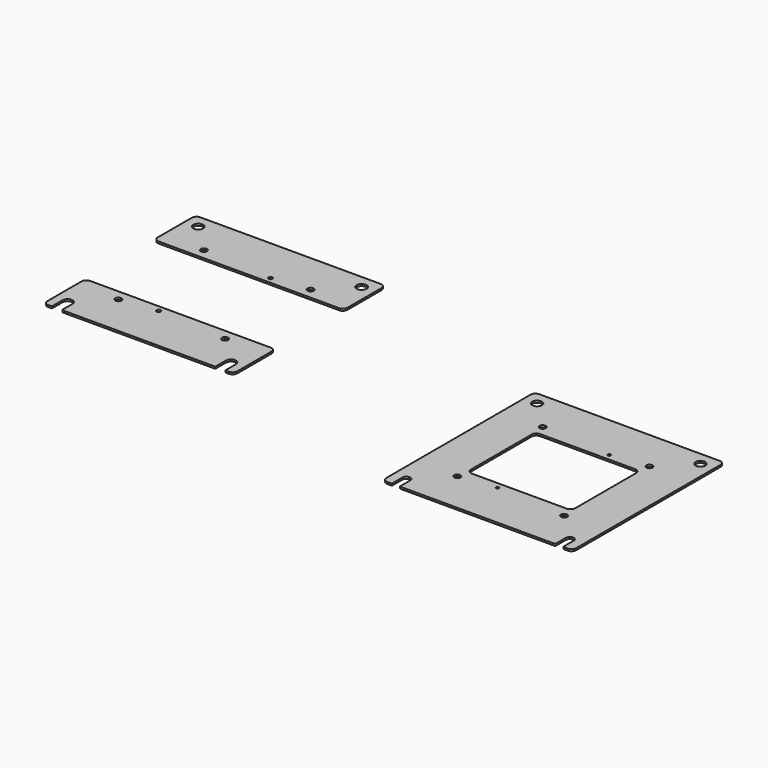
from build123d import *

# Parameters (mm, degrees)
F0_R     = 3.3
F0_R_2   = 1.55
F0_R_3   = 5.1
F1_DEPTH = 2
F0_R_4   = 2.1
F0_R_5   = 5.25
F2_R     = 2.8
F3_DEPTH = 1.65
F3_TAPER = -46


with BuildPart() as f1:
    # F0 (on Top) → F1 (new body)
    with BuildSketch(Plane.XY):
        with BuildLine():
            ThreePointArc((-100, -95), (-98.5355339059, -98.5355339059), (-95, -100))
            Line((-95, -100), (-91.1, -100))
            ThreePointArc((-91.1, -100), (-90.3928932188, -99.7071067812), (-90.1, -99))
            Line((-90.1, -99), (-90.1, -86))
            ThreePointArc((-90.1, -86), (-86, -81.9), (-81.9, -86))
            Line((-81.9, -86), (-81.9, -99))
            ThreePointArc((-81.9, -99), (-81.6071067812, -99.7071067812), (-80.9, -100))
            Line((-80.9, -100), (80.9, -100))
            ThreePointArc((80.9, -100), (81.6071067812, -99.7071067812), (81.9, -99))
            Line((81.9, -99), (81.9, -86))
            ThreePointArc((81.9, -86), (86, -81.9), (90.1, -86))
            Line((90.1, -86), (90.1, -99))
            ThreePointArc((90.1, -99), (90.3928932188, -99.7071067812), (91.1, -100))
            Line((91.1, -100), (95, -100))
            ThreePointArc((95, -100), (98.5355339059, -98.5355339059), (100, -95))
            Line((100, -95), (100, 95))
            ThreePointArc((100, 95), (98.5355339059, 98.5355339059), (95, 100))
            Line((95, 100), (-95, 100))
            ThreePointArc((-95, 100), (-98.5355339059, 98.5355339059), (-100, 95))
            Line((-100, 95), (-100, -95))
        make_face()
        with Locations((-56.2, -56.2)):
            Circle(F0_R, mode=Mode.SUBTRACT)
        with Locations((-17.7, -51.5)):
            Circle(F0_R_2, mode=Mode.SUBTRACT)
        with Locations((56.2, -56.2)):
            Circle(F0_R, mode=Mode.SUBTRACT)
        with BuildLine():
            Line((50, -45), (-50, -45))
            ThreePointArc((-50, -45), (-53.5355339059, -43.5355339059), (-55, -40))
            Line((-55, -40), (-55, 40))
            ThreePointArc((-55, 40), (-53.5355339059, 43.5355339059), (-50, 45))
            Line((-50, 45), (50, 45))
            ThreePointArc((50, 45), (53.5355339059, 43.5355339059), (55, 40))
            Line((55, 40), (55, -40))
            ThreePointArc((55, -40), (53.5355339059, -43.5355339059), (50, -45))
        make_face(mode=Mode.SUBTRACT)
        with Locations((-56.2, 56.2)):
            Circle(F0_R, mode=Mode.SUBTRACT)
        with Locations((-86, 86)):
            Circle(F0_R_3, mode=Mode.SUBTRACT)
        with Locations((17.7, 51.5)):
            Circle(F0_R_2, mode=Mode.SUBTRACT)
        with Locations((56.2, 56.2)):
            Circle(F0_R, mode=Mode.SUBTRACT)
        with Locations((86, 86)):
            Circle(F0_R_3, mode=Mode.SUBTRACT)
    extrude(amount=F1_DEPTH)

    # F2 (on face) → F3 (cut)
    with BuildSketch(Plane(origin=(0, 0, 0), x_dir=(1, 0, 0), z_dir=(0, 0, -1))):
        with Locations((17.7, -51.5)):
            Circle(F2_R)
        with Locations((-17.7, 51.5)):
            Circle(F2_R)
    extrude(amount=-F3_DEPTH, taper=F3_TAPER, mode=Mode.SUBTRACT)


with BuildPart() as f1b:
    # F0 (on Top) → F1, piece 2 (new body)
    with BuildSketch(Plane.XY):
        with BuildLine():
            ThreePointArc((-514.2914436857, -23.1435575097), (-512.8269775916, -26.6790914156), (-509.2914436857, -28.1435575097))
            Line((-509.2914436857, -28.1435575097), (-506.5414436857, -28.1435575097))
            ThreePointArc((-506.5414436857, -28.1435575097), (-505.8343369045, -27.8506642909), (-505.5414436857, -27.1435575097))
            Line((-505.5414436857, -27.1435575097), (-505.5414436857, -14.1435575097))
            ThreePointArc((-505.5414436857, -14.1435575097), (-500.2914436857, -8.8935575097), (-495.0414436857, -14.1435575097))
            Line((-495.0414436857, -14.1435575097), (-495.0414436857, -27.1435575097))
            ThreePointArc((-495.0414436857, -27.1435575097), (-494.7485504669, -27.8506642909), (-494.0414436857, -28.1435575097))
            Line((-494.0414436857, -28.1435575097), (-334.5414436857, -28.1435575097))
            ThreePointArc((-334.5414436857, -28.1435575097), (-333.8343369045, -27.8506642909), (-333.5414436857, -27.1435575097))
            Line((-333.5414436857, -27.1435575097), (-333.5414436857, -14.1435575097))
            ThreePointArc((-333.5414436857, -14.1435575097), (-328.2914436857, -8.8935575097), (-323.0414436857, -14.1435575097))
            Line((-323.0414436857, -14.1435575097), (-323.0414436857, -27.1435575097))
            ThreePointArc((-323.0414436857, -27.1435575097), (-322.7485504669, -27.8506642909), (-322.0414436857, -28.1435575097))
            Line((-322.0414436857, -28.1435575097), (-319.2914436857, -28.1435575097))
            ThreePointArc((-319.2914436857, -28.1435575097), (-315.7559097797, -26.6790914156), (-314.2914436857, -23.1435575097))
            Line((-314.2914436857, -23.1435575097), (-314.2914436857, 21.8564424903))
            ThreePointArc((-314.2914436857, 21.8564424903), (-315.7559097797, 25.3919763962), (-319.2914436857, 26.8564424903))
            Line((-319.2914436857, 26.8564424903), (-364.2914436857, 26.8564424903))
            Line((-364.2914436857, 26.8564424903), (-464.2914436857, 26.8564424903))
            Line((-464.2914436857, 26.8564424903), (-509.2914436857, 26.8564424903))
            ThreePointArc((-509.2914436857, 26.8564424903), (-512.8269775916, 25.3919763962), (-514.2914436857, 21.8564424903))
            Line((-514.2914436857, 21.8564424903), (-514.2914436857, -23.1435575097))
        make_face()
        with Locations((-470.4914436857, 15.6564424903)):
            Circle(F0_R, mode=Mode.SUBTRACT)
        with Locations((-431.9914436857, 20.3564424903)):
            Circle(F0_R_4, mode=Mode.SUBTRACT)
        with Locations((-358.0914436857, 15.6564424903)):
            Circle(F0_R, mode=Mode.SUBTRACT)
    extrude(amount=F1_DEPTH)


with BuildPart() as f1c:
    # F0 (on Top) → F1, piece 3 (new body)
    with BuildSketch(Plane.XY):
        with BuildLine():
            Line((-319.2914436857, 171.8564424903), (-509.2914436857, 171.8564424903))
            ThreePointArc((-509.2914436857, 171.8564424903), (-512.8269775916, 170.3919763962), (-514.2914436857, 166.8564424903))
            Line((-514.2914436857, 166.8564424903), (-514.2914436857, 121.8564424903))
            ThreePointArc((-514.2914436857, 121.8564424903), (-512.8269775916, 118.3209085844), (-509.2914436857, 116.8564424903))
            Line((-509.2914436857, 116.8564424903), (-464.2914436857, 116.8564424903))
            Line((-464.2914436857, 116.8564424903), (-364.2914436857, 116.8564424903))
            Line((-364.2914436857, 116.8564424903), (-319.2914436857, 116.8564424903))
            ThreePointArc((-319.2914436857, 116.8564424903), (-315.7559097797, 118.3209085844), (-314.2914436857, 121.8564424903))
            Line((-314.2914436857, 121.8564424903), (-314.2914436857, 166.8564424903))
            ThreePointArc((-314.2914436857, 166.8564424903), (-315.7559097797, 170.3919763962), (-319.2914436857, 171.8564424903))
        make_face()
        with Locations((-470.4914436857, 128.0564424903)):
            Circle(F0_R, mode=Mode.SUBTRACT)
        with Locations((-396.5914436857, 123.3564424903)):
            Circle(F0_R_4, mode=Mode.SUBTRACT)
        with Locations((-500.2914436857, 157.8564424903)):
            Circle(F0_R_5, mode=Mode.SUBTRACT)
        with Locations((-358.0914436857, 128.0564424903)):
            Circle(F0_R, mode=Mode.SUBTRACT)
        with Locations((-328.2914436857, 157.8564424903)):
            Circle(F0_R_5, mode=Mode.SUBTRACT)
    extrude(amount=F1_DEPTH)


solid = Compound([f1.part, f1b.part, f1c.part])
